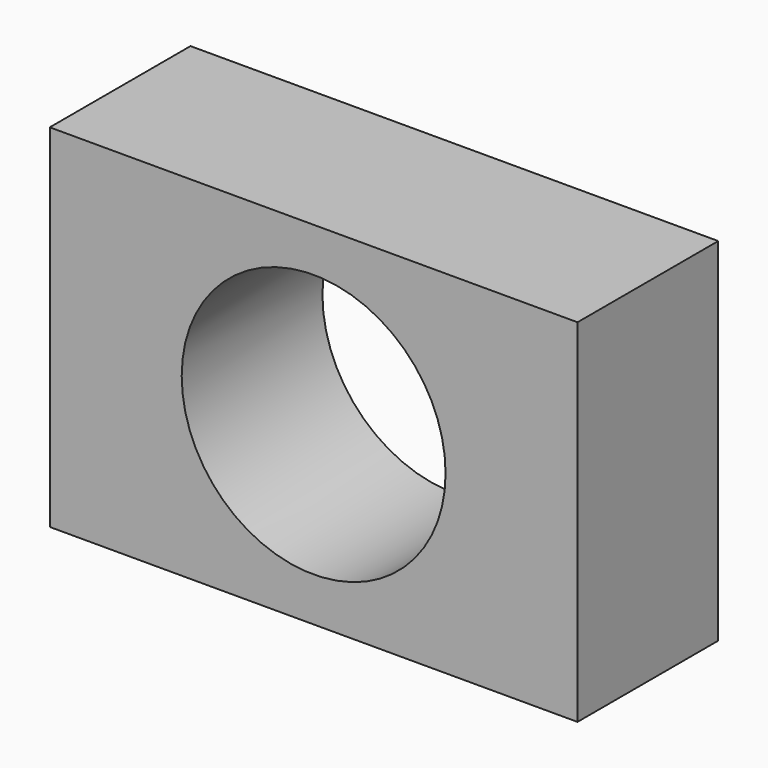
from build123d import *

# Parameters (mm, degrees)
F0_W     = 76.2
F0_H     = 50.8
F1_DEPTH = 12.7
F3_D     = 38.1


with BuildPart() as f1:
    # F0 (on Front) → F1 (new body, symmetric)
    with BuildSketch(Plane.XZ):
        with Locations((38.1, 25.4)):
            Rectangle(F0_W, F0_H)
    extrude(amount=F1_DEPTH, both=True)

    # F3 (through all)
    with Locations(Plane.XZ.offset(12.7)):
        with Locations((38.1, 25.4)):
            Hole(F3_D / 2)


solid = f1.part
